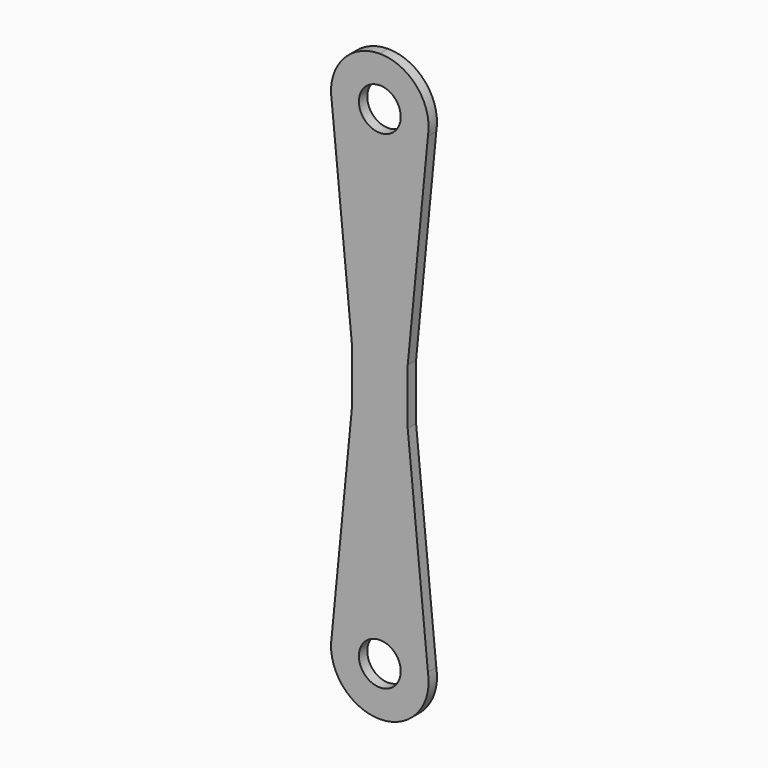
from build123d import *

# Parameters (mm, degrees)
F1_DEPTH = 1.5


with BuildPart() as f1:
    # F0 (on Front) → F1 (new body)
    with BuildSketch(Plane.XZ):
        with BuildLine():
            Line((-4, 31), (-6.897893, 1.191248))
            ThreePointArc((-6.897893, 1.191248), (-5.354378, -4.50895), (0, -7))
            ThreePointArc((0, -7), (5.354378, -4.50895), (6.897893, 1.191248))
            Line((6.897893, 1.191248), (4, 31))
            Line((4, 31), (4, 35))
            Line((4, 35), (4, 39))
            Line((4, 39), (6.897893, 68.808752))
            ThreePointArc((6.897893, 68.808752), (5.354378, 74.50895), (0, 77))
            ThreePointArc((0, 77), (-5.354378, 74.50895), (-6.897893, 68.808752))
            Line((-6.897893, 68.808752), (-4, 39))
            Line((-4, 39), (-4, 35))
            Line((-4, 35), (-4, 31))
        make_face()
        with BuildLine():
            ThreePointArc((0, -3), (-3, 0), (0, 3))
            ThreePointArc((0, 3), (3, 0), (0, -3))
        make_face(mode=Mode.SUBTRACT)
        with BuildLine():
            ThreePointArc((0, 73), (3, 70), (0, 67))
            ThreePointArc((0, 67), (-3, 70), (0, 73))
        make_face(mode=Mode.SUBTRACT)
    extrude(amount=F1_DEPTH)


solid = f1.part
